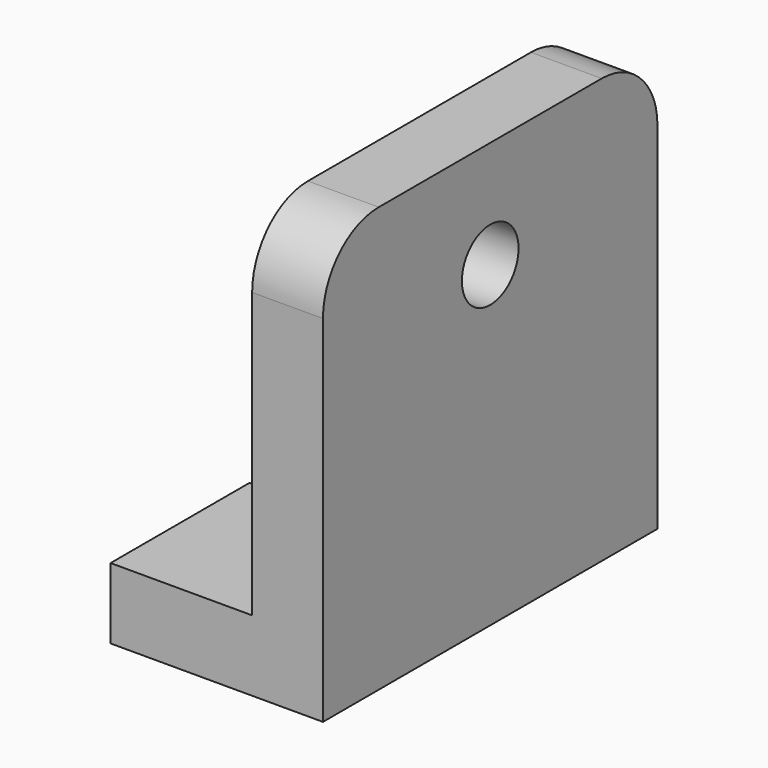
from build123d import *

# Parameters (mm, degrees)
F1_DEPTH = 74.999977
F2_R     = 12.7
F3_DEPTH = 25.4
F5_DEPTH = 25.4
F6_R     = 25.000001
F7_R     = 25.000001


with BuildPart() as f1:
    # F0 (on Front) → F1 (new body, symmetric)
    with BuildSketch(Plane.XZ):
        Polygon((-76.2, 0), (0, 0), (0, 152.4), (-25.4, 152.4), (-25.4, 25.4), (-76.2, 25.4), align=None)
    extrude(amount=F1_DEPTH, both=True)

    # F2 (on Right) → F3 (cut)
    with BuildSketch(Plane.YZ):
        with Locations((0, 113.898948)):
            Circle(F2_R)
    extrude(amount=-F3_DEPTH, mode=Mode.SUBTRACT)

    # F4 (on Top) → F5 (cut)
    with BuildSketch(Plane.XY):
        with BuildLine():
            ThreePointArc((-63.519787, -12.7), (-50.819787, 0), (-63.519787, 12.7))
            Line((-63.519787, 12.7), (-76.219787, 12.7))
            Line((-76.219787, 12.7), (-76.219787, -12.7))
            Line((-76.219787, -12.7), (-63.519787, -12.7))
        make_face()
    extrude(amount=F5_DEPTH, mode=Mode.SUBTRACT)

    # F6
    f6_edges = [f1.edges().sort_by_distance(p)[0] for p in [
        (-12.7, -74.999977, 152.4),
    ]]
    fillet(f6_edges, radius=F6_R)

    # F7
    f7_edges = [f1.edges().sort_by_distance(p)[0] for p in [
        (-12.7, 74.999977, 152.4),
    ]]
    fillet(f7_edges, radius=F7_R)


solid = f1.part
